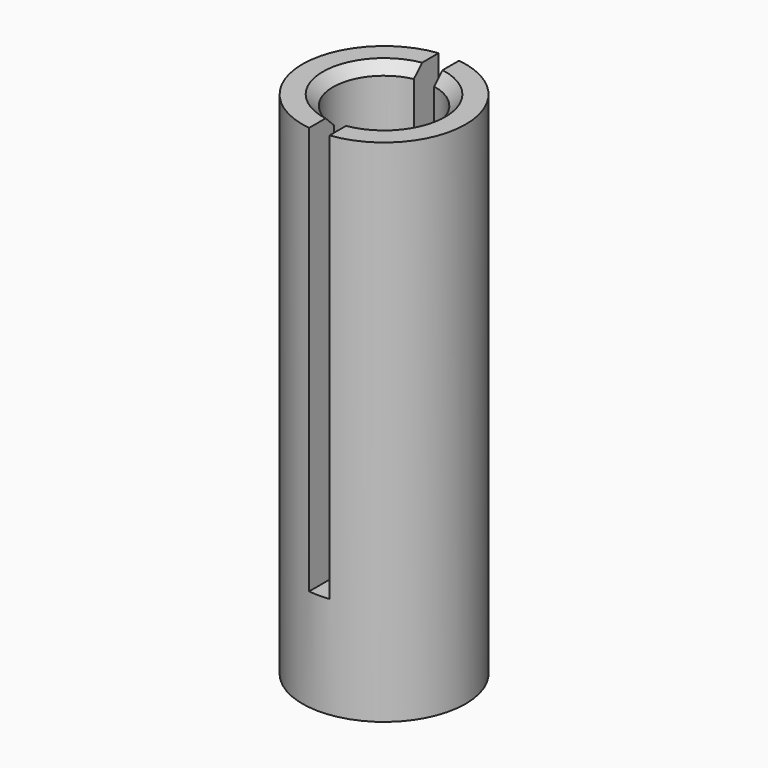
from build123d import *

# Parameters (mm, degrees)
SKETCH_R        = 4
SKETCH_R_2      = 2.5
PAD_DEPTH       = 25
SKETCH001_W     = 1
SKETCH001_H     = 17.797282
POCKET_DEPTH    = 20
CHAMFER_SIZE    = 0.5
CHAMFER001_SIZE = 0.5


with BuildPart() as part:
    # Sketch → Pad (new body)
    with BuildSketch(Plane.XY):
        Circle(SKETCH_R)
        Circle(SKETCH_R_2, mode=Mode.SUBTRACT)
    extrude(amount=PAD_DEPTH)

    # Sketch001 (on Face4 of Pad) → Pocket (cut)
    with BuildSketch(Plane.XY.offset(25)):
        Rectangle(SKETCH001_W, SKETCH001_H)
    extrude(amount=-POCKET_DEPTH, mode=Mode.SUBTRACT)

    # Chamfer
    chamfer_edges = [part.edges().sort_by_distance(p)[0] for p in [
        (-2.5, 0, 25),
    ]]
    chamfer(chamfer_edges, length=CHAMFER_SIZE)

    # Chamfer001
    chamfer001_edges = [part.edges().sort_by_distance(p)[0] for p in [
        (1.936492, 1.581139, 25),
        (1.936492, -1.581139, 25),
    ]]
    chamfer(chamfer001_edges, length=CHAMFER001_SIZE)


solid = part.part
